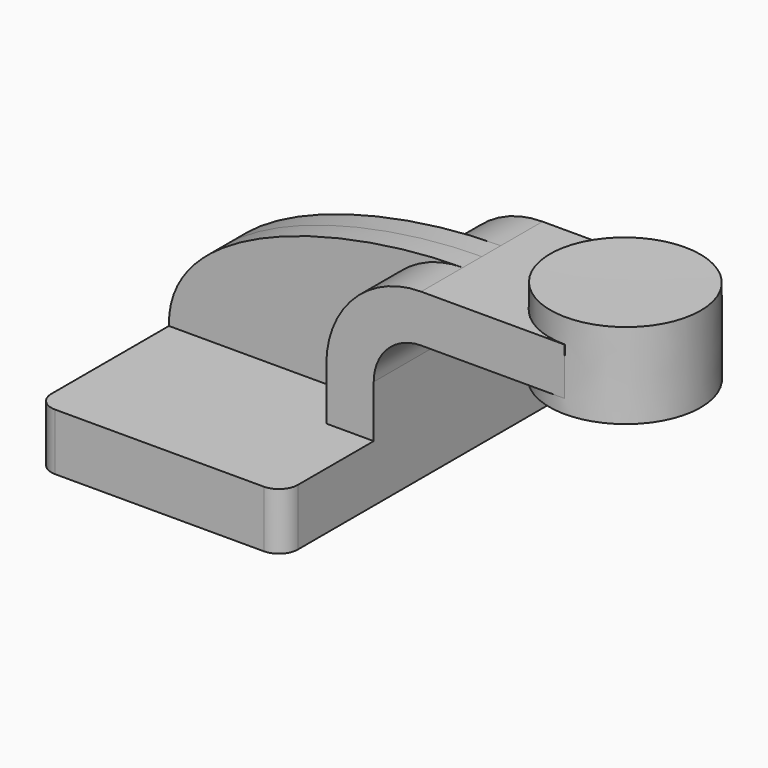
from build123d import *

# Parameters (mm, degrees)
F1_DEPTH = 63.5
F2_DEPTH = 25.4
F3_DEPTH = 7.9375
F4_DEPTH = 25.4
F6_R     = 6.35


with BuildPart() as f1:
    # F0 (on Front) → F1 (new body, symmetric)
    with BuildSketch(Plane.XZ):
        Polygon((-41.275, -9.525), (41.275, -9.525), (41.275, 9.525), (25.4, 9.525), (-41.275, 9.525), align=None)
    extrude(amount=F1_DEPTH, both=True)

    # F0 (on Front) → F2 (join, symmetric)
    with BuildSketch(Plane.XZ):
        with BuildLine():
            Line((25.4, 9.525), (41.275, 9.525))
            Line((41.275, 9.525), (41.275, 27.0002))
            ThreePointArc((41.275, 27.0002), (45.9246798487, 38.2255201513), (57.15, 42.8752))
            Line((57.15, 42.8752), (79.6478510928, 42.8752))
            Line((79.6478510928, 42.8752), (79.6478510928, 58.7502))
            Line((79.6478510928, 58.7502), (57.15, 58.7502))
            ThreePointArc((57.15, 58.7502), (34.6993596973, 49.4508403027), (25.4, 27.0002))
            Line((25.4, 27.0002), (25.4, 9.525))
        make_face()
    extrude(amount=F2_DEPTH, both=True)

    # F0 (on Front) → F3 (join, symmetric)
    with BuildSketch(Plane.XZ):
        with BuildLine():
            add(Edge.make_bspline(
                [(-41.275, 9.525), (-42.0931726694, 43.363686651), (18.200173974, 58.8082894683), (57.15, 58.7502)],
                knots=[0, 0, 0, 0, 110.0481755416, 110.0481755416, 110.0481755416, 110.0481755416], degree=3))
            Line((-41.275, 9.525), (25.4, 9.525))
            Line((25.4, 9.525), (25.4, 27.0002))
            ThreePointArc((25.4, 27.0002), (34.6993596973, 49.4508403027), (57.15, 58.7502))
        make_face()
    extrude(amount=F3_DEPTH, both=True)

    # F0 (on Front) → F4 (join, symmetric)
    with BuildSketch(Plane.XZ):
        Polygon((105.17556149, 58.7502), (79.6478510928, 58.7502), (79.6478510928, 42.8752), (105.0773831404, 42.8752), align=None)
    extrude(amount=F4_DEPTH, both=True)

    # F0 (on Front) → F5 (revolve)
    with BuildSketch(Plane.XZ):
        Polygon((105.2245721221, 66.675), (105.17556149, 58.7502), (105.0773831404, 42.8752), (105.0478510928, 38.1), (130.4478510928, 38.1), (130.4478510928, 66.675), align=None)
    revolve(axis=Axis((105.1362116075, 0, 52.3875), (0.0061843447, 0, 0.9999808768)))

    # F6
    f6_edges = [f1.edges().sort_by_distance(p)[0] for p in [
        (-41.275, -63.5, 0),
        (41.275, -63.5, 0),
        (41.275, 63.5, 0),
        (-41.275, 63.5, 0),
    ]]
    fillet(f6_edges, radius=F6_R)


solid = f1.part
